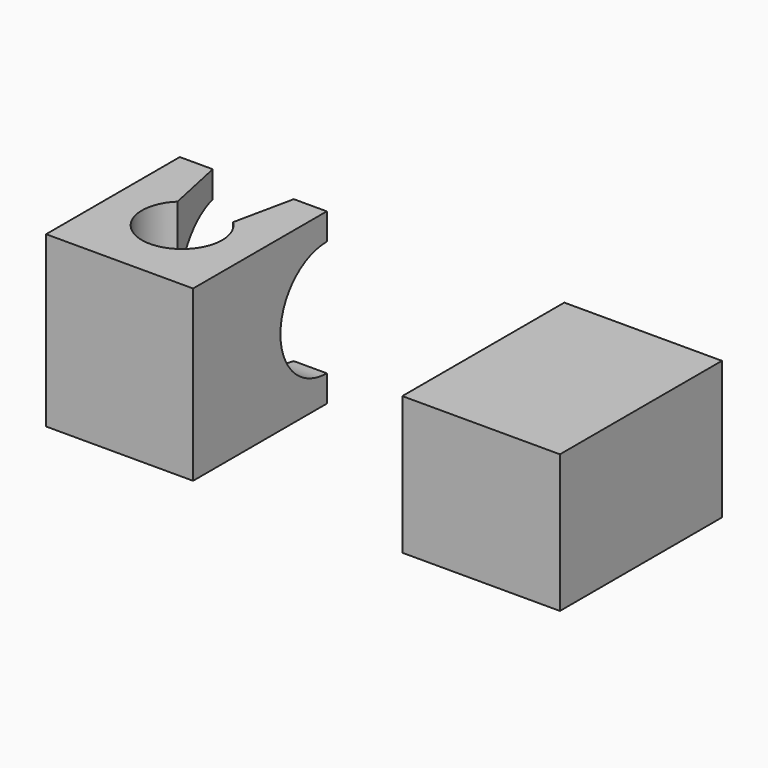
from build123d import *

# Parameters (mm, degrees)
F1_DEPTH = 15.4686
F3_DEPTH = 25.4
F4_W     = 14.4
F4_H     = 18.5
F5_DEPTH = 12.6


with BuildPart() as f1:
    # F0 (on Top) → F1 (new body)
    with BuildSketch(Plane.XY):
        with BuildLine():
            Line((-12.6717286184, -3.8805939257), (-15.6828127801, -3.8805939257))
            Line((-15.6828127801, -3.8805939257), (-15.6828127801, -19.1473122686))
            Line((-15.6828127801, -19.1473122686), (-2.2524250671, -19.1473122686))
            Line((-2.2524250671, -19.1473122686), (-2.2524250671, -3.8805939257))
            Line((-2.2524250671, -3.8805939257), (-5.2646137774, -3.8805939257))
            Line((-5.2646137774, -3.8805939257), (-6.4280647547, -9.3582948019))
            ThreePointArc((-6.4280647547, -9.3582948019), (-8.9676189236, -15.6831096095), (-11.5071730925, -9.3582948019))
            Line((-11.5071730925, -9.3582948019), (-12.6717286184, -3.8805939257))
        make_face()
    extrude(amount=F1_DEPTH)

    # F2 (on face) → F3 (cut)
    with BuildSketch(Plane.YZ.offset(-2.2524250671)):
        with BuildLine():
            Line((-3.8805939257, 7.7343), (-3.8805939257, 13.0249166941))
            ThreePointArc((-3.8805939257, 13.0249166941), (-9.1712106198, 7.7343), (-3.8805939257, 2.4436833059))
            Line((-3.8805939257, 2.4436833059), (-3.8805939257, 2.4579335004))
            Line((-3.8805939257, 2.4579335004), (-3.8805939257, 7.7343))
        make_face()
    extrude(amount=-F3_DEPTH, mode=Mode.SUBTRACT)


with BuildPart() as f5:
    # F4 (on Top) → F5 (new body)
    with BuildSketch(Plane.XY):
        with Locations((23.5437798619, -9.25)):
            Rectangle(F4_W, F4_H)
    extrude(amount=F5_DEPTH)


solid = Compound([f1.part, f5.part])
